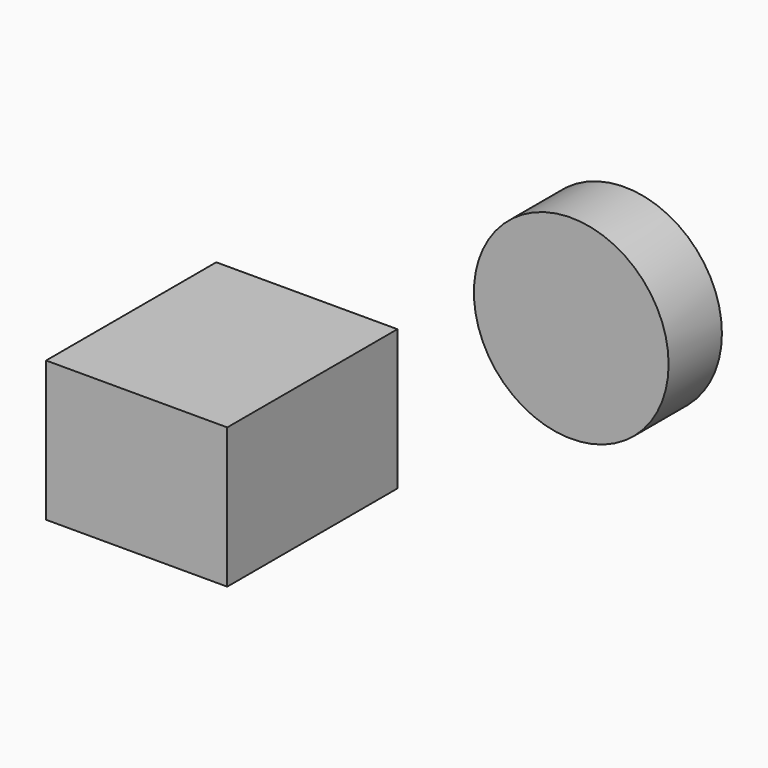
from build123d import *

# Parameters (mm, degrees)
F0_W     = 121.933609
F0_H     = 80.376893
F1_DEPTH = 103.84442
F2_R     = 55.807142
F3_DEPTH = 38.19328


with BuildPart() as f1:
    # F0 (on Right) → F1 (new body)
    with BuildSketch(Plane.YZ):
        with Locations((-237.665906, 79.372234)):
            Rectangle(F0_W, F0_H)
    extrude(amount=F1_DEPTH)


with BuildPart() as f3:
    # F2 (on Front) → F3 (new body)
    with BuildSketch(Plane.XZ):
        with Locations((92.685357, 60.080417)):
            Circle(F2_R)
    extrude(amount=F3_DEPTH)


solid = Compound([f1.part, f3.part])
